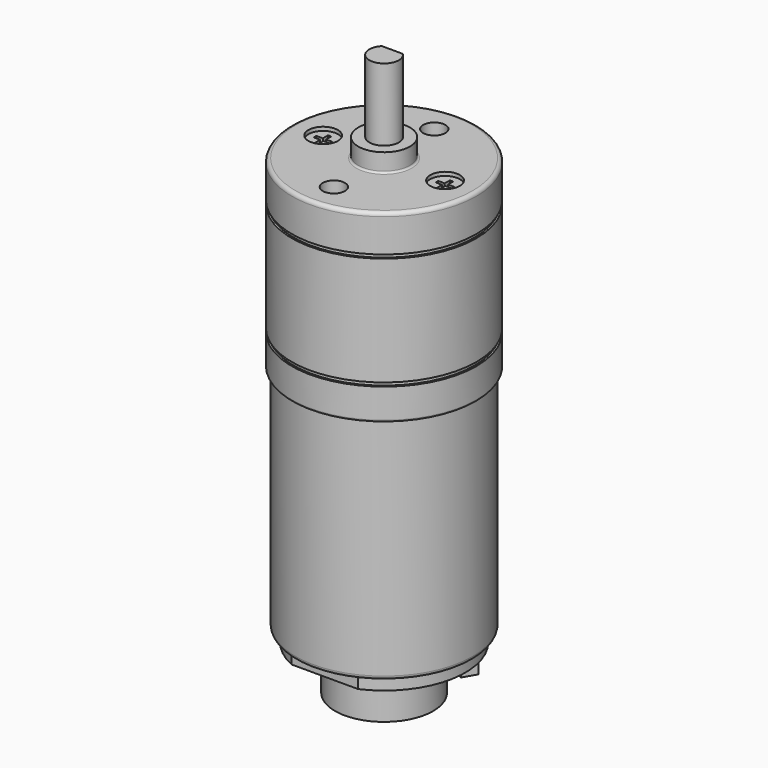
from build123d import *

# Parameters (mm, degrees)
SKETCH_R           = 12
PAD_DEPTH          = 31
SKETCH001_R        = 12.5
PAD001_DEPTH       = 25
SKETCH002_R        = 3.5
PAD002_DEPTH       = 2.5
SKETCH003_R        = 2
PAD003_DEPTH       = 9.8
POCKET_DEPTH       = 8
SKETCH005_R        = 2
POCKET001_DEPTH    = 0.5
POCKET002_DEPTH    = 0.75
POLARPATTERN_COUNT = 2
SKETCH007_R        = 1.5
POCKET003_DEPTH    = 7.5
FILLET_R           = 0.25
FILLET001_R        = 0.5
FILLET002_R        = 0.25
FILLET003_R        = 0.5
SKETCH008_R        = 3
PAD004_DEPTH       = 1.5
SKETCH009_R        = 1
PAD005_DEPTH       = 8.8
FILLET004_R        = 0.45
FILLET005_R        = 0.5
SKETCH010_W        = 0.25
SKETCH010_H        = 0.5
PAD006_DEPTH       = 1.75
SKETCH014_R        = 6.65
SKETCH014_R_2      = 1.2
PAD007_DEPTH       = 6
PAD008_DEPTH       = 4
SKETCH016_W        = 0.8
SKETCH016_H        = 1.25
PAD009_DEPTH       = 0.5


with BuildPart() as part:
    # Sketch → Pad (new body)
    with BuildSketch(Plane.XY):
        Circle(SKETCH_R)
    extrude(amount=PAD_DEPTH)

    # Sketch001 (on Face3 of Pad) → Pad001 (join)
    with BuildSketch(Plane.XY.offset(31)):
        Circle(SKETCH001_R)
    extrude(amount=PAD001_DEPTH)

    # Sketch002 (on Face5 of Pad001) → Pad002 (join)
    with BuildSketch(Plane.XY.offset(56)):
        Circle(SKETCH002_R)
    extrude(amount=PAD002_DEPTH)

    # Sketch003 (on Face7 of Pad002) → Pad003 (join)
    with BuildSketch(Plane.XY.offset(58.5)):
        Circle(SKETCH003_R)
    extrude(amount=PAD003_DEPTH)

    # Sketch004 (on Face9 of Pad003) → Pocket (cut)
    with BuildSketch(Plane.XY.offset(68.3)):
        with BuildLine():
            ThreePointArc((1.428286, 1.4), (0, 2), (-1.428286, 1.4))
            Line((-1.428286, 1.4), (1.428286, 1.4))
        make_face()
    extrude(amount=-POCKET_DEPTH, mode=Mode.SUBTRACT)

    # Sketch005 (on Face5 of Pocket) → Pocket001 (cut)
    with BuildSketch(Plane.XY.offset(56)):
        with Locations((-8.25, 0)):
            Circle(SKETCH005_R)
    pocket001 = extrude(amount=-POCKET001_DEPTH, mode=Mode.SUBTRACT)

    # Sketch006 (on Face8 of Pocket001) → Pocket002 (cut)
    with BuildSketch(Plane.XY.offset(55.5)):
        Polygon((-8.47, 0.22), (-8.47, 1.1), (-8.03, 1.1), (-8.03, 0.22), (-7.15, 0.22), (-7.15, -0.22), (-8.03, -0.22), (-8.03, -1.1), (-8.47, -1.1), (-8.47, -0.22), (-9.35, -0.22), (-9.35, 0.22), align=None)
    pocket002 = extrude(amount=-POCKET002_DEPTH, mode=Mode.SUBTRACT)

    # PolarPattern: Pocket001, Pocket002 ×2 about axis
    polarpattern_axis = Axis((0, 0, 56), (0, 0, 1))
    for i in range(1, POLARPATTERN_COUNT):
        add(pocket001.rotate(polarpattern_axis, i * 360 / POLARPATTERN_COUNT), mode=Mode.SUBTRACT)
        add(pocket002.rotate(polarpattern_axis, i * 360 / POLARPATTERN_COUNT), mode=Mode.SUBTRACT)

    # Sketch007 (on Face5 of PolarPattern) → Pocket003 (cut)
    with BuildSketch(Plane.XY.offset(56)):
        with Locations((0, 8.5)):
            Circle(SKETCH007_R)
        with Locations((0, -8.5)):
            Circle(SKETCH007_R)
    extrude(amount=-POCKET003_DEPTH, mode=Mode.SUBTRACT)

    # Fillet
    fillet_edges = [part.edges().sort_by_distance(p)[0] for p in [
        (-3.5, 0, 56),
    ]]
    fillet(fillet_edges, radius=FILLET_R)

    # Fillet001
    fillet001_edges = [part.edges().sort_by_distance(p)[0] for p in [
        (-12.5, 0, 56),
    ]]
    fillet(fillet001_edges, radius=FILLET001_R)

    # Fillet002
    fillet002_edges = [part.edges().sort_by_distance(p)[0] for p in [
        (-12.5, 0, 31),
    ]]
    fillet(fillet002_edges, radius=FILLET002_R)

    # Fillet003
    fillet003_edges = [part.edges().sort_by_distance(p)[0] for p in [
        (-12, 0, 0),
    ]]
    fillet(fillet003_edges, radius=FILLET003_R)

    # Sketch008 (on Face4 of Fillet003) → Pad004 (join)
    with BuildSketch(Plane(origin=(0, 0, 0), x_dir=(1, 0, 0), z_dir=(0, 0, -1))):
        Circle(SKETCH008_R)
    extrude(amount=PAD004_DEPTH)

    # Sketch009 (on Face8 of Pad004) → Pad005 (join)
    with BuildSketch(Plane(origin=(0, 0, -1.5), x_dir=(1, 0, 0), z_dir=(0, 0, -1))):
        Circle(SKETCH009_R)
    extrude(amount=PAD005_DEPTH)

    # Fillet004
    fillet004_edges = [part.edges().sort_by_distance(p)[0] for p in [
        (-1, 0, -10.3),
    ]]
    fillet(fillet004_edges, radius=FILLET004_R)

    # Fillet005
    fillet005_edges = [part.edges().sort_by_distance(p)[0] for p in [
        (-3, 0, 0),
    ]]
    fillet(fillet005_edges, radius=FILLET005_R)

    # Sketch010 → Groove (revolve, cut)
    with BuildSketch(Plane.XZ):
        with Locations((12.375, 50.75)):
            Rectangle(SKETCH010_W, SKETCH010_H)
        with Locations((12.375, 35.5)):
            Rectangle(SKETCH010_W, SKETCH010_H)
    revolve(axis=Axis((0, 0, 0), (0, 0, 1)), mode=Mode.SUBTRACT)

    # Sketch011 (on Face4 of Groove) → Pad006 (join)
    with BuildSketch(Plane(origin=(0, 0, 0), x_dir=(1, 0, 0), z_dir=(0, 0, -1))):
        with BuildLine():
            Line((-4.5, 10.03743), (4.5, 10.03743))
            ThreePointArc((4.5, -10.03743), (11.00887, 0), (4.5, 10.03743))
            Line((-4.5, -10.03743), (4.5, -10.03743))
            ThreePointArc((-4.5, 10.03743), (-10.991147, 0), (-4.5, -10.03743))
        make_face()
    extrude(amount=PAD006_DEPTH)

    # Sketch014 (on Face8 of Pad006) → Pad007 (join)
    with BuildSketch(Plane(origin=(0, 0, -1.75), x_dir=(1, 0, 0), z_dir=(0, 0, -1))):
        Circle(SKETCH014_R)
        Circle(SKETCH014_R_2, mode=Mode.SUBTRACT)
    extrude(amount=PAD007_DEPTH)

    # Sketch015 (on Face8 of Pad007) → Pad008 (join)
    with BuildSketch(Plane(origin=(0, 0, -1.75), x_dir=(1, 0, 0), z_dir=(0, 0, -1))):
        Polygon((1, -8), (6.542563, -4.8), (7.542563, -6.532051), (2, -9.732051), align=None)
        Polygon((-9.182051, -2.457437), (-5.982051, -8), (-4.25, -7), (-7.45, -1.457437), align=None)
    extrude(amount=PAD008_DEPTH)

    # Sketch016 (on Face8 of Pad008) → Pad009 (join)
    with BuildSketch(Plane(origin=(0, 0, -1.75), x_dir=(1, 0, 0), z_dir=(0, 0, -1))):
        with Locations((-3.85, -8.53743)):
            Rectangle(SKETCH016_W, SKETCH016_H)
        with Locations((0, -9.16243)):
            Rectangle(SKETCH016_W, SKETCH016_H)
        with Locations((-10.082051, -1.832437)):
            Rectangle(SKETCH016_W, SKETCH016_H)
        with Locations((8.442563, -5.407051)):
            Rectangle(SKETCH016_W, SKETCH016_H)
    extrude(amount=PAD009_DEPTH)


solid = part.part
